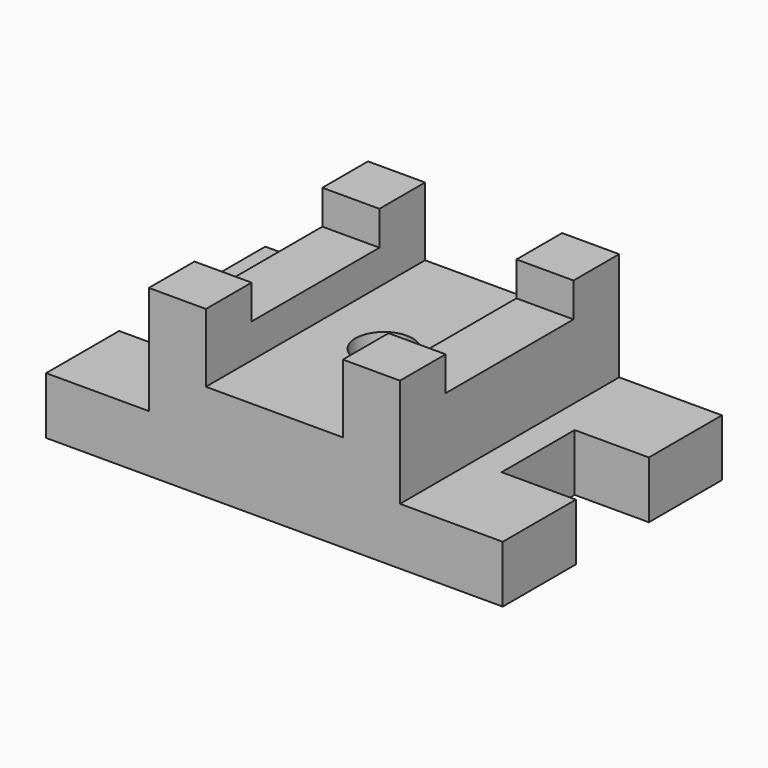
from build123d import *

# Parameters (mm, degrees)
F1_DEPTH = 31.75
F0_W     = 31.75
F0_H     = 31.75
F2_DEPTH = 92.075
F0_H_2   = 88.9
F3_DEPTH = 73.025
F4_DEPTH = 53.975


with BuildPart() as f1:
    # F0 (on Top) → F1 (new body)
    with BuildSketch(Plane.XY):
        Polygon((-69.85, 44.45), (-69.85, 76.2), (-127, 76.2), (-127, 25.4), (-85.725, 25.4), (-85.725, -25.4), (-127, -25.4), (-127, -76.2), (-69.85, -76.2), (-69.85, -44.45), align=None)
        Polygon((127, 76.2), (69.85, 76.2), (69.85, 44.45), (69.85, -44.45), (69.85, -76.2), (127, -76.2), (127, -25.4), (85.725, -25.4), (85.725, 25.4), (127, 25.4), align=None)
    extrude(amount=F1_DEPTH)

    # F0 (on Top) → F2 (join)
    with BuildSketch(Plane.XY):
        with Locations((-53.975, -60.325)):
            Rectangle(F0_W, F0_H)
        with Locations((53.975, 60.325)):
            Rectangle(F0_W, F0_H)
        with Locations((53.975, -60.325)):
            Rectangle(F0_W, F0_H)
        with Locations((-53.975, 60.325)):
            Rectangle(F0_W, F0_H)
    extrude(amount=F2_DEPTH)

    # F0 (on Top) → F3 (join)
    with BuildSketch(Plane.XY):
        with Locations((-53.975, 0)):
            Rectangle(F0_W, F0_H_2)
        with Locations((53.975, 0)):
            Rectangle(F0_W, F0_H_2)
    extrude(amount=F3_DEPTH)

    # F0 (on Top) → F4 (join)
    with BuildSketch(Plane.XY):
        with BuildLine():
            ThreePointArc((0, 15.875), (11.22532, 11.22532), (15.875, 0))
            ThreePointArc((15.875, 0), (11.22532, -11.22532), (0, -15.875))
            Line((0, -15.875), (0, -76.2))
            Line((0, -76.2), (38.1, -76.2))
            Line((38.1, -76.2), (38.1, -44.45))
            Line((38.1, -44.45), (38.1, 44.45))
            Line((38.1, 44.45), (38.1, 76.2))
            Line((38.1, 76.2), (0, 76.2))
            Line((0, 76.2), (0, 15.875))
        make_face()
        with BuildLine():
            ThreePointArc((0, -15.875), (-15.875, 0), (0, 15.875))
            Line((0, 15.875), (0, 76.2))
            Line((0, 76.2), (-38.1, 76.2))
            Line((-38.1, 76.2), (-38.1, 44.45))
            Line((-38.1, 44.45), (-38.1, -44.45))
            Line((-38.1, -44.45), (-38.1, -76.2))
            Line((-38.1, -76.2), (0, -76.2))
            Line((0, -76.2), (0, -15.875))
        make_face()
    extrude(amount=F4_DEPTH)


solid = f1.part
